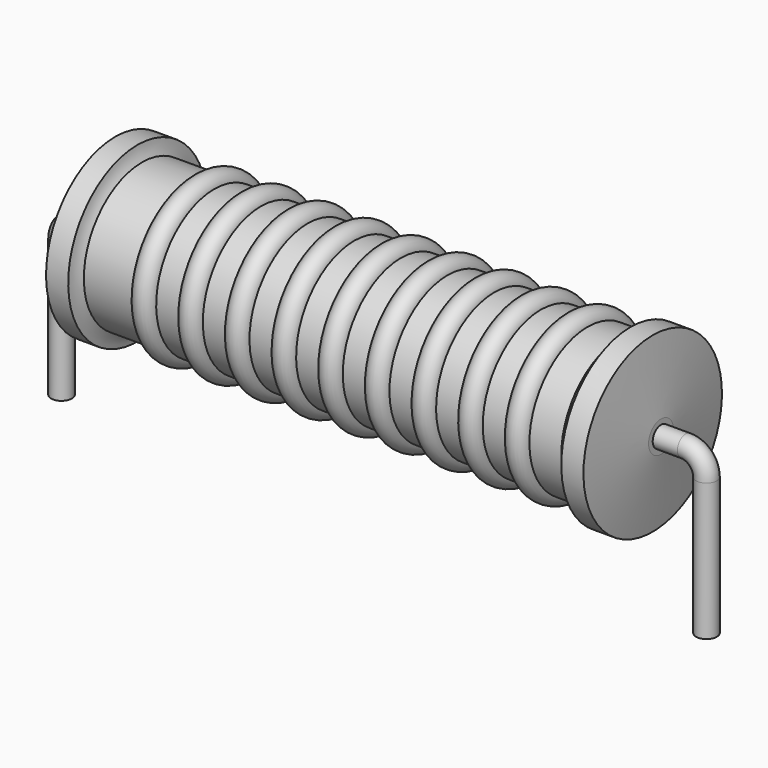
from build123d import *

# Parameters (mm, degrees)
SKETCH_R = 0.45


with BuildPart() as revolution:
    # Sketch002 → Revolution (revolve)
    with BuildSketch(Plane.XZ):
        with BuildLine():
            Line((2.33, 7.6), (3.29, 7.6))
            ThreePointArc((3.29, 7.6), (3.354808, 7.288717), (3.488, 7))
            Line((3.488, 7), (24.17, 7))
            ThreePointArc((24.17, 7), (24.440918, 7.275266), (24.65, 7.6))
            Line((24.65, 7.6), (25.61, 7.6))
            ThreePointArc((25.97, 4.525), (25.793776, 6.062942), (25.61, 7.6))
            Line((25.97, 3.85), (25.97, 4.525))
            Line((1.97, 3.85), (25.97, 3.85))
            Line((1.97, 3.85), (1.97, 4.525))
            ThreePointArc((2.33, 7.6), (2.146224, 6.062942), (1.97, 4.525))
        make_face()
    revolve(axis=Axis((1.97, 0, 3.85), (1, 0, 0)))


with BuildPart() as sweep_body:
    # Sweep: sweep along a path in Sketch001
    with BuildLine(Plane.XZ) as sweep_path:
        Line((0, -3), (0, 2.95))
        ThreePointArc((0, 2.95), (0.263601, 3.586393), (0.899992, 3.85))
        Line((0.899992, 3.85), (27.04, 3.85))
        ThreePointArc((27.04, 3.85), (27.676396, 3.586396), (27.94, 2.95))
        Line((27.94, 2.95), (27.94, -3))
    # Sketch → Sweep (sweep)
    with BuildSketch(Plane.XY.offset(-2)):
        Circle(SKETCH_R)
    sweep(path=sweep_path.line)


with BuildPart() as revolution001:
    # Sketch003 → Revolution001 (revolve)
    with BuildSketch(Plane.XZ):
        with BuildLine():
            ThreePointArc((6.631053, 6.904), (6.125789, 7.409263), (5.620526, 6.904))
            Line((4.61, 6.904), (5.620526, 6.904))
            Line((4.61, 6.904), (4.61, 6.154))
            Line((4.61, 6.154), (23.81, 6.154))
            Line((23.81, 6.154), (23.81, 6.904))
            Line((22.799474, 6.904), (23.81, 6.904))
            ThreePointArc((22.799474, 6.904), (22.294211, 7.409263), (21.788947, 6.904))
            Line((20.778421, 6.904), (21.788947, 6.904))
            ThreePointArc((20.778421, 6.904), (20.273158, 7.409263), (19.767895, 6.904))
            Line((18.757368, 6.904), (19.767895, 6.904))
            ThreePointArc((18.757368, 6.904), (18.252105, 7.409263), (17.746842, 6.904))
            Line((16.736316, 6.904), (17.746842, 6.904))
            ThreePointArc((16.736316, 6.904), (16.231053, 7.409263), (15.725789, 6.904))
            Line((14.715263, 6.904), (15.725789, 6.904))
            ThreePointArc((14.715263, 6.904), (14.21, 7.409263), (13.704737, 6.904))
            Line((12.694211, 6.904), (13.704737, 6.904))
            ThreePointArc((12.694211, 6.904), (12.188947, 7.409263), (11.683684, 6.904))
            Line((10.673158, 6.904), (11.683684, 6.904))
            ThreePointArc((10.673158, 6.904), (10.167895, 7.409263), (9.662632, 6.904))
            Line((8.652105, 6.904), (9.662632, 6.904))
            ThreePointArc((8.652105, 6.904), (8.146842, 7.409263), (7.641579, 6.904))
            Line((6.631053, 6.904), (7.641579, 6.904))
        make_face()
    revolve(axis=Axis((2.57, 0, 3.85), (1, 0, 0)))


solid = Compound([revolution.part, sweep_body.part, revolution001.part])
